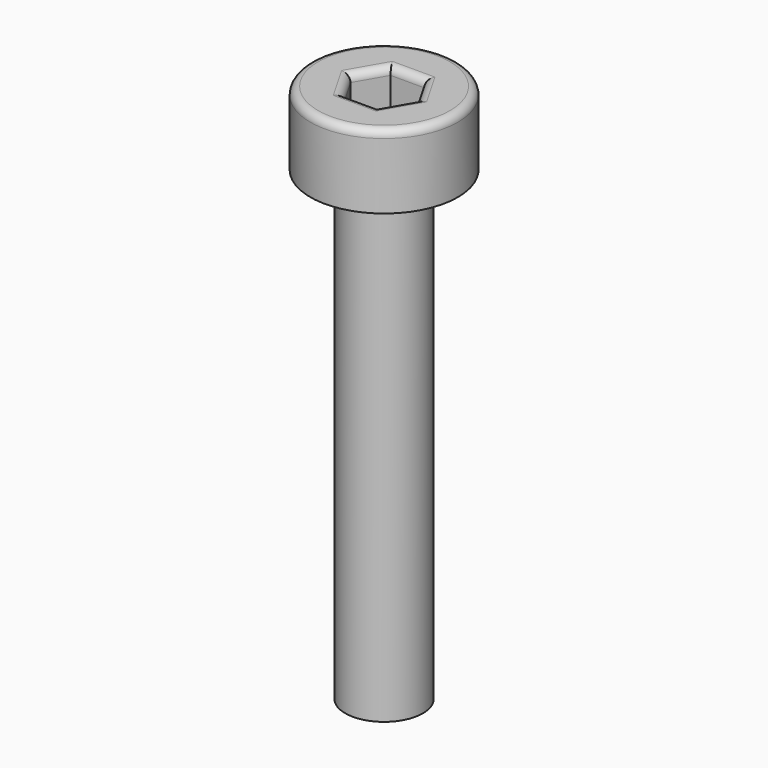
from build123d import *

# Parameters (mm, degrees)
SKETCH042_R              = 1.9
PAD007_DEPTH             = 1.9
POCKET024_DEPTH          = 1.2
SKETCH044_R              = 1
PAD008_DEPTH             = 12
FILLET005_R              = 0.2
BODY008_PLACEMENT_ANGLE  = 90
CLONE003_PLACEMENT_ANGLE = 90


with BuildPart() as part:
    # Sketch042 → Pad007 (new body)
    with BuildSketch(Plane.XY):
        Circle(SKETCH042_R)
    extrude(amount=PAD007_DEPTH)

    # Sketch043 (on Face3 of Pad007) → Pocket024 (cut)
    with BuildSketch(Plane.XY.offset(1.9)):
        Polygon((0.866025, 0), (0.433013, 0.75), (-0.433013, 0.75), (-0.866025, 0), (-0.433013, -0.75), (0.433013, -0.75), align=None)
    extrude(amount=-POCKET024_DEPTH, mode=Mode.SUBTRACT)

    # Sketch044 → Pad008 (join)
    with BuildSketch(Plane.XY):
        Circle(SKETCH044_R)
    extrude(amount=-PAD008_DEPTH)

    # Fillet005
    fillet005_edges = [part.edges().sort_by_distance(p)[0] for p in [
        (-1.9, 0, 1.9),
        (-0.649519, 0.375, 1.9),
        (-0.649519, -0.375, 1.9),
        (0, -0.75, 1.9),
        (0.649519, -0.375, 1.9),
        (0.649519, 0.375, 1.9),
        (0, 0.75, 1.9),
    ]]
    fillet(fillet005_edges, radius=FILLET005_R)


with BuildPart() as part_1:
    # Body008 placement: moved
    add(part.part.moved(Location((40, -5, 15))).rotate(Axis((40, -5, 15), (1, 0, 0)), BODY008_PLACEMENT_ANGLE))


with BuildPart() as part_2:
    # Clone003 placement: moved
    add(part_1.part.moved(Location((-40, -15, -5))).rotate(Axis((-40, -15, -5), (-1, 0, 0)), CLONE003_PLACEMENT_ANGLE))


with BuildPart() as part_3:
    # Body010 placement: moved
    add(part_2.part.moved(Location((67, 5, 21))))


solid = part_3.part
